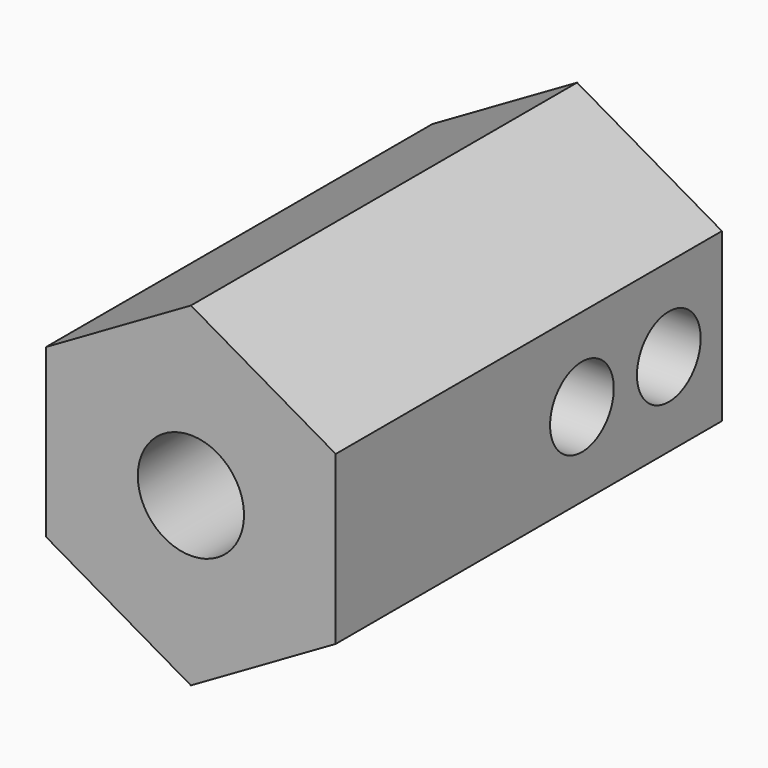
from build123d import *

# Parameters (mm, degrees)
F1_DEPTH = 20
F2_R     = 3
F3_DEPTH = 13
F5_D     = 4.4
F7_D     = 3.3
F7_DEPTH = 6
F7_TIP   = 0.9914200214


with BuildPart() as f1:
    # F0 (on Front) → F1 (new body)
    with BuildSketch(Plane.XZ):
        Polygon((6, -3.4641016151), (6, 3.4641016151), (0, 6.9282032303), (-6, 3.4641016151), (-6, -3.4641016151), (0, -6.9282032303), align=None)
    extrude(amount=F1_DEPTH)

    # F2 (on face) → F3 (cut)
    with BuildSketch(Plane(origin=(0, 0, 0), x_dir=(-1, 0, 0), z_dir=(0, 1, 0))):
        Circle(F2_R)
    extrude(amount=-F3_DEPTH, mode=Mode.SUBTRACT)

    # F5 (through all)
    with Locations(Plane.XZ.offset(20)):
        with Locations((0, 0)):
            Hole(F5_D / 2)

    # F7
    with Locations(Plane.YZ.offset(6)):
        with Locations((-2.75, 0), (-7.25, 0)):
            Hole(F7_D / 2, depth=F7_DEPTH)
            with Locations((0, 0, -(F7_DEPTH + F7_TIP / 2))):  # 118° drill point
                Cone(0, F7_D / 2, F7_TIP, mode=Mode.SUBTRACT)


solid = f1.part
